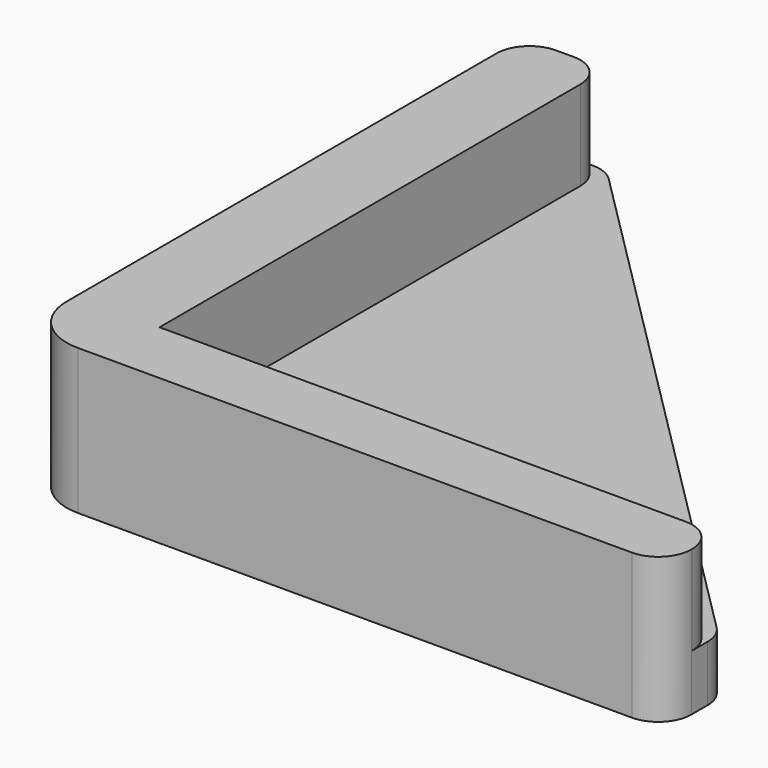
from build123d import *

# Parameters (mm, degrees)
PAD_DEPTH    = 1.6
PAD001_DEPTH = 1
FILLET_R     = 1
FILLET002_R  = 0.59
FILLET003_R  = 0.59


with BuildPart() as part:
    # Sketch → Pad (new body)
    with BuildSketch(Plane.XY):
        Polygon((0, 10), (-1.5, 10), (-1.5, -1.2), (10, -1.2), (10, 0), (0, 0), align=None)
    extrude(amount=PAD_DEPTH)

    # Sketch001 → Pad001 (join)
    with BuildSketch(Plane.XY):
        Polygon((-1.5, 10), (-1.5, -1.2), (10, -1.2), (10, 0), (0, 10), align=None)
    extrude(amount=-PAD001_DEPTH)

    # Fillet
    fillet_edges = [part.edges().sort_by_distance(p)[0] for p in [
        (-1.5, -1.2, 0.3),
    ]]
    fillet(fillet_edges, radius=FILLET_R)

    # Fillet002
    fillet002_edges = [part.edges().sort_by_distance(p)[0] for p in [
        (0, 10, 0.8),
        (10, -1.2, 0.3),
        (10, 0, 0.8),
        (-1.5, 10, 0.3),
    ]]
    fillet(fillet002_edges, radius=FILLET002_R)

    # Fillet003
    fillet003_edges = [part.edges().sort_by_distance(p)[0] for p in [
        (10, 0, -0.5),
        (0, 10, -0.5),
    ]]
    fillet(fillet003_edges, radius=FILLET003_R)


solid = part.part
